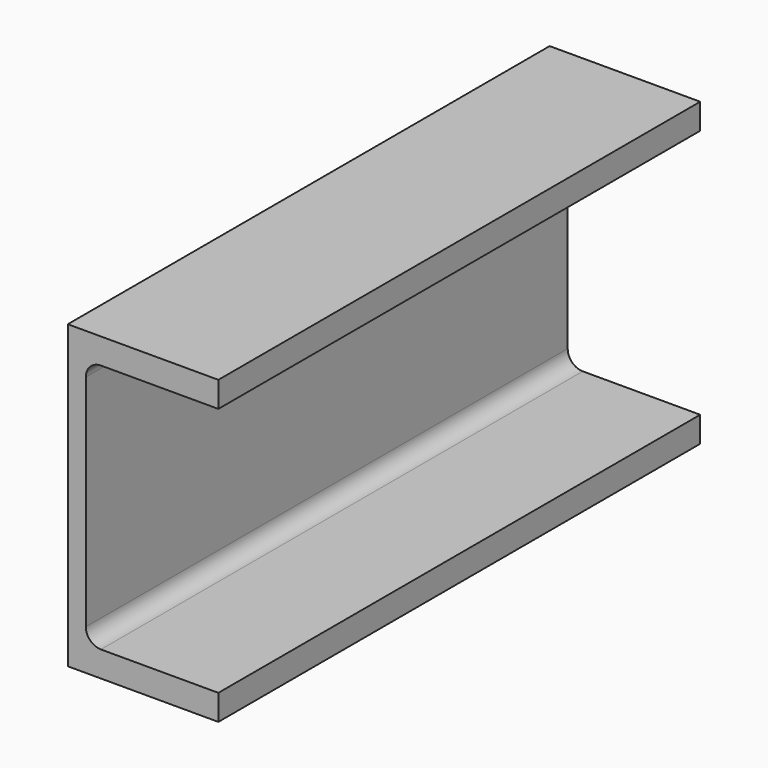
from build123d import *

# Parameters (mm, degrees)
F1_DEPTH = 200


with BuildPart() as f1:
    # F0 (on Front) → F1 (new body)
    with BuildSketch(Plane.XZ):
        with BuildLine():
            Line((25, 41.5), (25, 50))
            Line((25, 50), (-25, 50))
            Line((-25, 50), (-25, -50))
            Line((-25, -50), (25, -50))
            Line((25, -50), (25, -41.5))
            Line((25, -41.5), (-14, -41.5))
            ThreePointArc((-14, -41.5), (-17.535534, -40.035534), (-19, -36.5))
            Line((-19, -36.5), (-19, 36.5))
            ThreePointArc((-19, 36.5), (-17.535534, 40.035534), (-14, 41.5))
            Line((-14, 41.5), (25, 41.5))
        make_face()
    extrude(amount=-F1_DEPTH)


solid = f1.part
